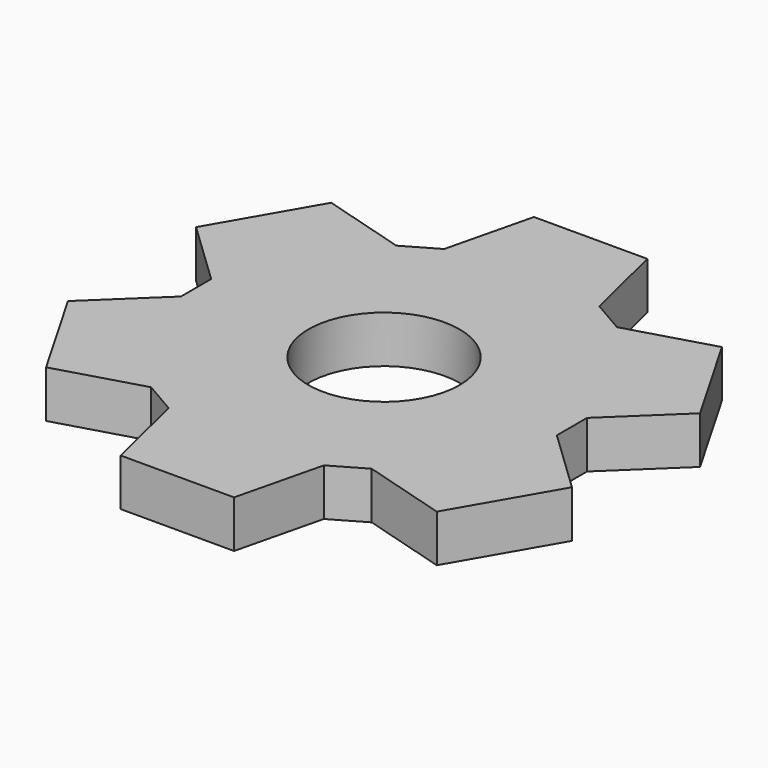
from build123d import *

# Parameters (mm, degrees)
SKETCH_R  = 5.08
PAD_DEPTH = 3.175


with BuildPart() as part:
    # Sketch → Pad (new body)
    with BuildSketch(Plane.XY):
        Polygon((-5.218318, 11.578392), (-3.81, 17.366989), (3.81, 17.366989), (5.218318, 11.578392), (7.418022, 10.308392), (13.135253, 11.983051), (16.945253, 5.383938), (12.63634, 1.27), (12.63634, -1.27), (16.945253, -5.383938), (13.135253, -11.983051), (7.418022, -10.308392), (5.218318, -11.578392), (3.81, -17.366989), (-3.81, -17.366989), (-5.218318, -11.578392), (-7.418022, -10.308392), (-13.135253, -11.983051), (-16.945253, -5.383938), (-12.63634, -1.27), (-12.63634, 1.27), (-16.945253, 5.383938), (-13.135253, 11.983051), (-7.418022, 10.308392), align=None)
        Circle(SKETCH_R, mode=Mode.SUBTRACT)
    extrude(amount=PAD_DEPTH)


solid = part.part
